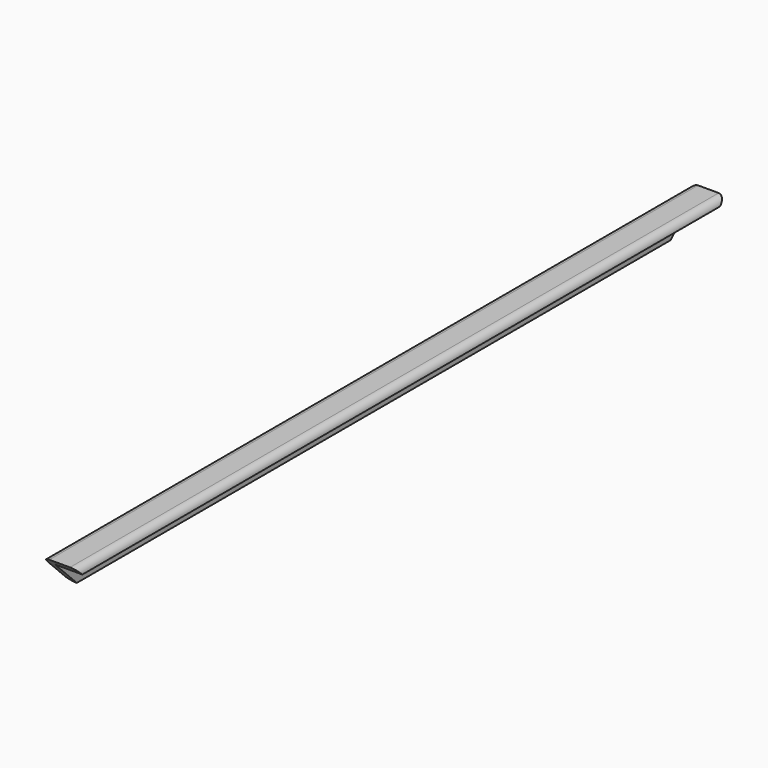
from build123d import *

# Parameters (mm, degrees)
F1_DEPTH = 749.3
F3_DEPTH = 31.751
F5_DEPTH = 50.8


with BuildPart() as f1:
    # F0 (on Front) → F1 (new body)
    with BuildSketch(Plane.XZ):
        with BuildLine():
            Line((0, -25.4), (0, 0))
            Line((0, 0), (25.4, 0))
            ThreePointArc((25.4, 0), (23.5401280605, 4.4901280605), (19.05, 6.35))
            Line((19.05, 6.35), (0, 6.35))
            ThreePointArc((0, 6.35), (-4.4901280605, 4.4901280605), (-6.35, 0))
            Line((-6.35, 0), (-6.35, -19.05))
            ThreePointArc((-6.35, -19.05), (-4.4901280605, -23.5401280605), (0, -25.4))
        make_face()
    extrude(amount=F1_DEPTH)

    # F2 (on face) → F3 (cut, through all)
    with BuildSketch(Plane(origin=(-6.35, 0, 0), x_dir=(0, -1, 0), z_dir=(-1, 0, 0))):
        Polygon((749.3, -25.4), (749.3, 6.35), (717.55, -25.4), align=None)
    extrude(amount=-F3_DEPTH, mode=Mode.SUBTRACT)

    # F4 (on face) → F5 (cut)
    with BuildSketch(Plane(origin=(-6.35, 0, 0), x_dir=(0, -1, 0), z_dir=(-1, 0, 0))):
        Polygon((31.75, -25.4), (25.4, -19.05), (0, -19.05), (0, -25.4), align=None)
        Polygon((25.4, -19.05), (6.35, 0), (0, 0), (0, -19.05), align=None)
        Polygon((6.35, 0), (0, 6.35), (0, 0), align=None)
    extrude(amount=-F5_DEPTH, mode=Mode.SUBTRACT)


solid = f1.part
